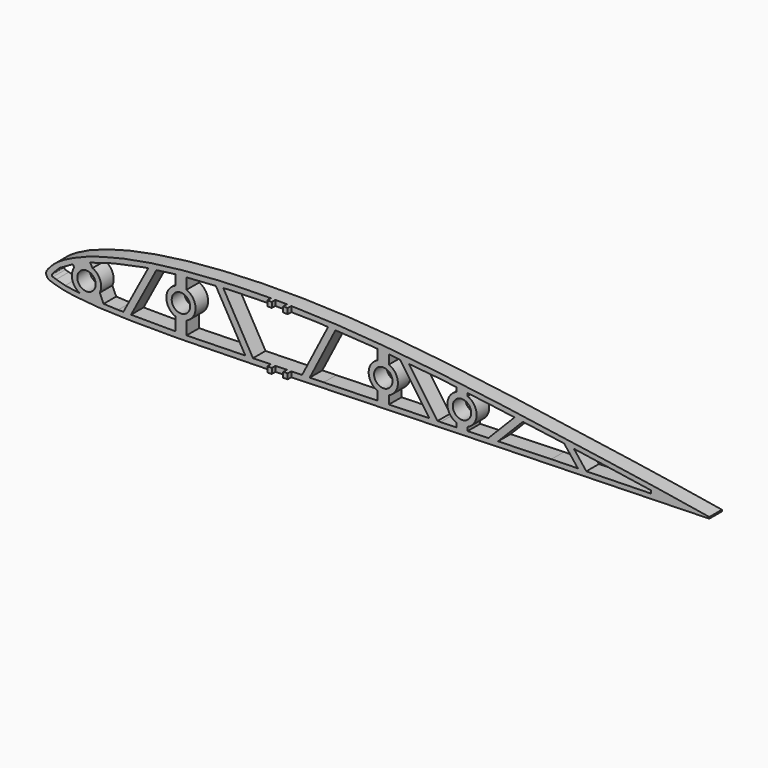
from build123d import *

# Parameters (mm, degrees)
PAD_DEPTH       = 975
POCKET002_DEPTH = 1000
SKETCH007_W     = 89.545105
SKETCH007_H     = 1089.963386
POCKET003_DEPTH = 2.5
SKETCH008_R     = 4.1
PAD002_DEPTH    = 975
SKETCH009_W     = 530.339905
SKETCH009_H     = 988.7771
POCKET004_DEPTH = 50
SKETCH011_W     = 110.975031
SKETCH011_H     = 49.552794
SKETCH011_W_2   = 5.1
SKETCH011_H_2   = 58.130444
SKETCH011_W_3   = 202.978186
SKETCH011_H_3   = 45.356951
POCKET006_DEPTH = 2


with BuildPart() as part:
    # Sketch003 → Pad (new body)
    with BuildSketch(Plane.XZ):
        with BuildLine():
            add(Edge.make_bspline(
                [(300, 0), (299.662763, 0.037038), (298.339429, 0.190429), (295.439956, 0.589667), (290.775356, 1.337839), (284.500044, 2.393262), (276.735212, 3.66473), (267.577355, 5.083019), (257.136483, 6.653879), (245.549215, 8.381993), (232.975291, 10.222771), (219.590016, 12.153256), (205.573823, 14.115503), (191.111579, 16.055183), (176.381713, 17.897983), (161.544489, 19.553409), (146.739309, 20.940939), (132.087536, 21.99009), (117.705275, 22.664279), (103.703346, 22.961168), (90.192549, 22.858072), (77.284675, 22.375726), (65.094168, 21.544938), (53.730431, 20.369385), (43.29002, 18.857963), (33.852484, 17.043697), (25.485501, 14.967735), (18.252292, 12.67281), (12.179436, 10.224412), (7.338355, 7.689021), (3.623023, 5.152403), (1.3546, 2.748114), (-0.314638, 0.590402), (0.575789, -1.804065), (3.482069, -2.72942), (7.386052, -3.91761), (13.030922, -4.754284), (20.096342, -5.463024), (28.645402, -5.933379), (38.56853, -6.201185), (49.790194, -6.284208), (62.196701, -6.193111), (75.660953, -5.967607), (90.034637, -5.629522), (105.153445, -5.226063), (120.83724, -4.775199), (136.895942, -4.296045), (153.13493, -3.818601), (169.356828, -3.345106), (185.36574, -2.889379), (200.968742, -2.465331), (215.974941, -2.074889), (230.201502, -1.715375), (243.47905, -1.394255), (255.639348, -1.103787), (266.558709, -0.84997), (276.034546, -0.603516), (284.209016, -0.340421), (290.324818, -0.117753), (295.956469, 0.021784), (297.365519, 0.017012), (300.344672, 0.018536), (300.000994, -0.000109), (300, 0)],
                knots=[0, 0, 0, 0, 1.017748, 3.99659, 8.779341, 15.189917, 23.087031, 32.383824, 42.990765, 54.76218, 67.530065, 81.114584, 95.333435, 109.988542, 124.889458, 139.866624, 154.774633, 169.496697, 183.930349, 197.964304, 211.506735, 224.45797, 236.709214, 248.156653, 258.723012, 268.346769, 276.97692, 284.567784, 291.102108, 296.573756, 300.992679, 304.39163, 306.761357, 308.43213, 311.131254, 315.298227, 320.951765, 328.080828, 336.654655, 346.609821, 357.866231, 370.316475, 383.83025, 398.264023, 413.449345, 429.202773, 445.334827, 461.646891, 477.940787, 494.021253, 509.693044, 524.767168, 539.054704, 552.387642, 564.607107, 575.560217, 585.109622, 593.180747, 599.700326, 604.53767, 607.540683, 608.560842, 608.563842, 608.563842, 608.563842, 608.563842], degree=3))
        make_face()
    extrude(amount=PAD_DEPTH)

    # Sketch006 (on Face3 of Pad) → Pocket002 (cut)
    with BuildSketch(Plane.XZ.offset(975)):
        with BuildLine():
            Line((2.713263, 0.775372), (3.386703, 1.523026))
            Line((3.386703, 1.523026), (5.993214, 4.179621))
            Line((5.993214, 4.179621), (11.230826, 7.180706))
            Line((11.230826, 7.180706), (18.928726, 10.492708))
            Line((18.928726, 10.492708), (30.015602, 13.804502))
            Line((30.015602, 13.804502), (43.705284, 16.658491))
            Line((43.705284, 16.658491), (58.37534, 18.58366))
            Line((58.37534, 18.58366), (81.932846, 20.199753))
            Line((81.932846, 20.199753), (99.115959, 20.581533))
            Line((99.115959, 20.581533), (120.506348, 20.199753))
            Line((120.506348, 20.199753), (145.772324, 18.655943))
            Line((145.772324, 18.655943), (175.747543, 15.772772))
            Line((175.747543, 15.772772), (200.435547, 12.569891))
            Line((200.435547, 12.569891), (229.384109, 8.602522))
            Line((229.384109, 8.602522), (252.135086, 5.213018))
            Line((252.135086, 5.213018), (269.069916, 2.671427))
            Line((269.069916, 2.671427), (269.069916, 1.39956))
            Line((269.069916, 1.39956), (224.761032, 0.436598))
            Line((224.761032, 0.436598), (175.486649, -1.027315))
            Line((175.486649, -1.027315), (123.47789, -2.412929))
            Line((123.47789, -2.412929), (62.077515, -3.876549))
            Line((62.077515, -3.876549), (32.052879, -3.760909))
            Line((32.052879, -3.760909), (18.887957, -3.18288))
            Line((18.887957, -3.18288), (12.728564, -2.489715))
            Line((12.728564, -2.489715), (8.493419, -1.872198))
            Line((8.493419, -1.872198), (4.562357, -0.768246))
            Line((4.562357, -0.768246), (3.013953, -0.301296))
            ThreePointArc((2.713263, 0.775372), (2.567567, 0.15436), (3.013953, -0.301296))
        make_face()
    extrude(amount=-POCKET002_DEPTH, mode=Mode.SUBTRACT)

    # Sketch007 → Pocket003 (cut, symmetric)
    with BuildSketch(Plane.XY):
        with Locations((339.772552, -527.612545)):
            Rectangle(SKETCH007_W, SKETCH007_H)
    extrude(amount=POCKET003_DEPTH, both=True, mode=Mode.SUBTRACT)

    # Sketch008 (on Face4 of Pocket003) → Pad002 (join)
    with BuildSketch(Plane.XZ.offset(975)):
        Polygon((45.883972, 17.721869), (33.929979, -4.654965), (37.331221, -4.654965), (49.864502, 18.806244), align=None)
        with BuildLine():
            ThreePointArc((12.49229, 6.45183), (11.877033, 0.818423), (15.915785, -3.156789))
            Line((15.915785, -3.156789), (16.615922, -4.582716))
            Line((16.615922, -4.582716), (26.093039, -4.582716))
            Line((23.927186, 0.331954), (26.093039, -4.582716))
            ThreePointArc((23.927186, 0.331954), (24.083233, 5.290038), (20.696327, 8.914374))
            Line((20.696327, 8.914374), (19.191151, 11.361285))
            Line((11.725203, 8.211095), (19.191151, 11.361285))
            Line((12.49229, 6.45183), (11.725203, 8.211095))
        make_face()
        with Locations((18, 3)):
            Circle(SKETCH008_R, mode=Mode.SUBTRACT)
        Polygon((74.837349, 20.968384), (89.206329, -4.249731), (92.659144, -4.249731), (78.184032, 21.154647), align=None)
        Polygon((113.371621, -3.617416), (125.992361, 20.986459), (129.33754, 20.934824), (116.743287, -3.617416), align=None)
        Polygon((156.489991, 19.012594), (171.223801, -2.187052), (175.064011, -2.455857), (160.385949, 18.663577), align=None)
        Polygon((195.991472, -1.145031), (209.190294, 12.320477), (213.439896, 12.370226), (200.19231, -1.145031), align=None)
        Polygon((229.837707, 9.194464), (237.095519, 0), (240.917549, 0), (234.226173, 8.476883), align=None)
        with BuildLine():
            ThreePointArc((57.5, 14), (53.5, 8), (57.5, 2))
            Line((57.5, 2), (57.5, -4.905906))
            Line((57.5, -4.905906), (62.5, -4.905906))
            Line((62.5, -4.905906), (62.5, 2))
            ThreePointArc((62.5, 2), (66.5, 8), (62.5, 14))
            Line((62.5, 14), (62.5, 20.034189))
            Line((62.5, 20.034189), (57.5, 19.556065))
            Line((57.5, 14), (57.5, 19.556065))
        make_face()
        with Locations((60, 8)):
            Circle(SKETCH008_R, mode=Mode.SUBTRACT)
        with BuildLine():
            ThreePointArc((147.5, 14), (143.5, 8), (147.5, 2))
            Line((147.5, 2), (147.5, -2.562403))
            Line((147.5, -2.562403), (152.5, -2.562403))
            Line((152.5, -2.562403), (152.5, 2))
            ThreePointArc((152.5, 2), (156.5, 8), (152.5, 14))
            Line((152.5, 18.960966), (152.5, 14))
            Line((147.5, 19.241402), (152.5, 18.960966))
            Line((147.5, 14), (147.5, 19.241402))
        make_face()
        with Locations((150, 8)):
            Circle(SKETCH008_R, mode=Mode.SUBTRACT)
        with BuildLine():
            ThreePointArc((182.5, 13), (178.5, 7), (182.5, 1))
            Line((182.5, 1), (182.5, -1.799935))
            Line((182.5, -1.799935), (187.5, -1.799935))
            Line((187.5, -1.799935), (187.5, 1))
            ThreePointArc((187.5, 1), (191.5, 7), (187.5, 13))
            Line((187.5, 15.534908), (187.5, 13))
            Line((182.5, 15.936711), (187.5, 15.534908))
            Line((182.5, 13), (182.5, 15.936711))
        make_face()
        with Locations((185, 7)):
            Circle(SKETCH008_R, mode=Mode.SUBTRACT)
    extrude(amount=-PAD002_DEPTH)

    # Sketch009 → Pocket004 (cut, symmetric)
    with BuildSketch(Plane.XY):
        with Locations((157.450378, -503.38855)):
            Rectangle(SKETCH009_W, SKETCH009_H)
    extrude(amount=POCKET004_DEPTH, both=True, mode=Mode.SUBTRACT)

    # Sketch011 (on Face4 of Pocket004) → Pocket006 (cut)
    with BuildSketch(Plane.XZ.offset(9)):
        with Locations((44.512484, 12.108861)):
            Rectangle(SKETCH011_W, SKETCH011_H)
        with Locations((104.55, 10.493025)):
            Rectangle(SKETCH011_W_2, SKETCH011_H_2)
        with Locations((210.589093, 7.92272)):
            Rectangle(SKETCH011_W_3, SKETCH011_H_3)
    extrude(amount=-POCKET006_DEPTH, mode=Mode.SUBTRACT)


solid = part.part
